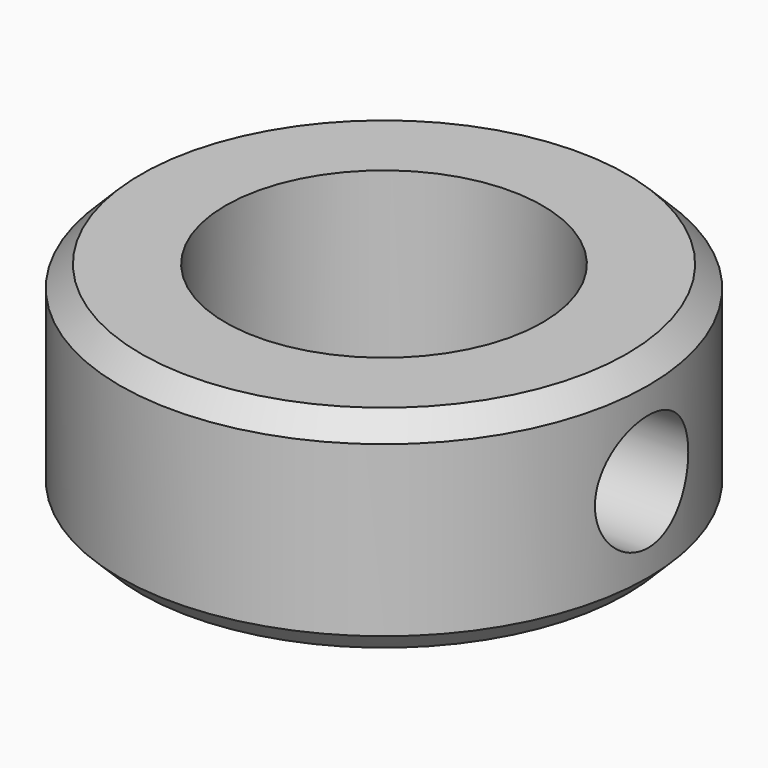
from build123d import *

# Parameters (mm, degrees)
F0_R     = 7.9375
F0_R_2   = 4.7625
F1_DEPTH = 6.35
F3_R     = 1.7526
F4_DEPTH = 5.08
F5_SIZE  = 0.635


with BuildPart() as f1:
    # F0 (on Top) → F1 (new body)
    with BuildSketch(Plane.XY):
        Circle(F0_R)
        Circle(F0_R_2, mode=Mode.SUBTRACT)
    extrude(amount=F1_DEPTH)

    # F3 (on offset) → F4 (cut)
    with BuildSketch(Plane.YZ.offset(7.9375)):
        with Locations((0, 3.175)):
            Circle(F3_R)
    extrude(amount=-F4_DEPTH, mode=Mode.SUBTRACT)

    # F5
    f5_edges = [f1.edges().sort_by_distance(p)[0] for p in [
        (-7.9375, 0, 6.35),
        (-7.9375, 0, 0),
    ]]
    chamfer(f5_edges, length=F5_SIZE)


solid = f1.part
